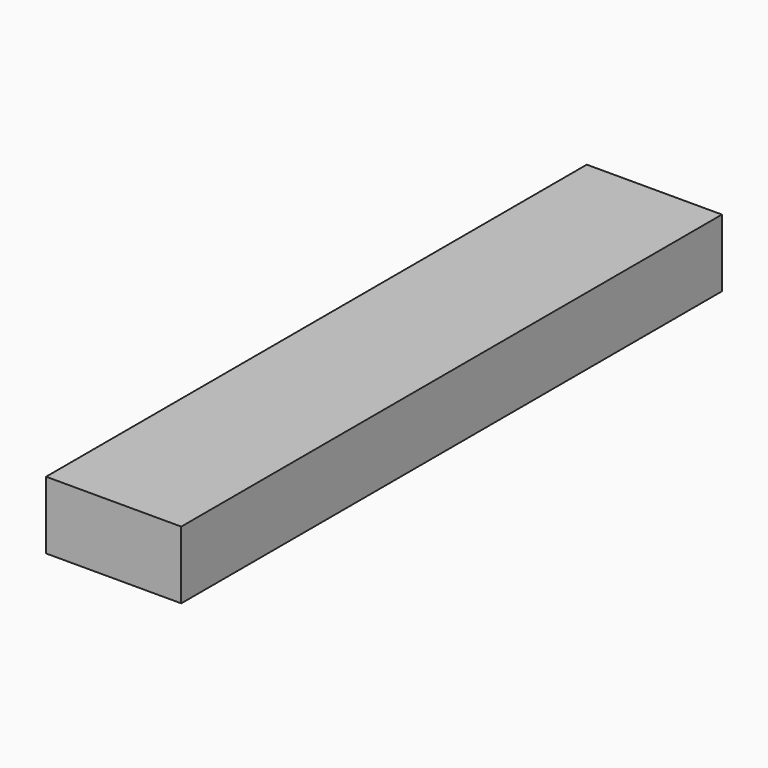
from build123d import *

# Parameters (mm, degrees)
SKETCH_W  = 10
SKETCH_H  = 50
PAD_DEPTH = 5


with BuildPart() as part:
    # Sketch → Pad (new body)
    with BuildSketch(Plane.XY):
        with Locations((-14.605477, 13.457675)):
            Rectangle(SKETCH_W, SKETCH_H)
    extrude(amount=PAD_DEPTH)


solid = part.part
